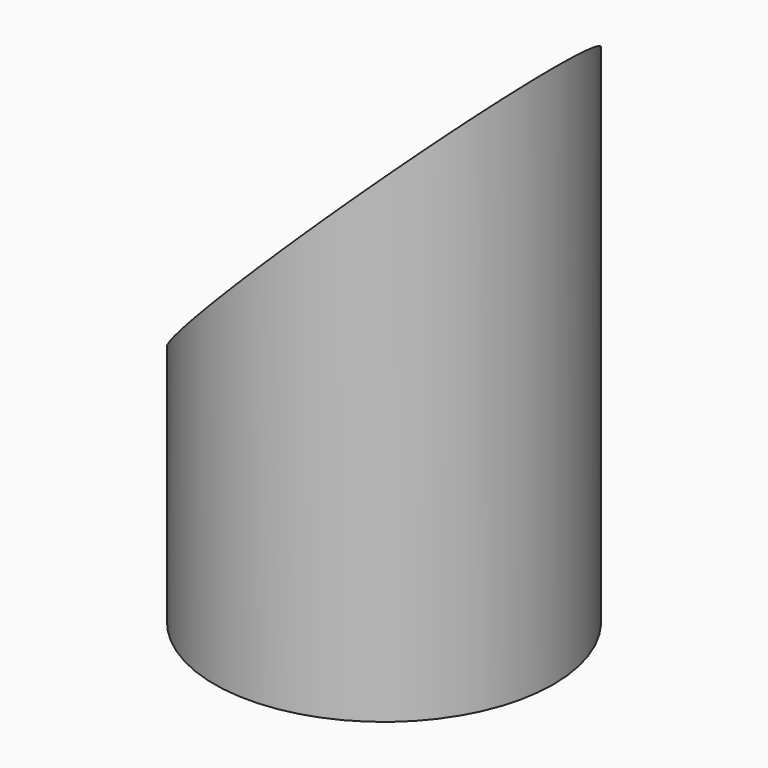
from build123d import *

# Parameters (mm, degrees)
F0_R     = 15.875
F1_DEPTH = 50.8
F3_DEPTH = 25.4


with BuildPart() as f1:
    # F0 (on Top) → F1 (new body)
    with BuildSketch(Plane.XY):
        Circle(F0_R)
    extrude(amount=F1_DEPTH)

    # F2 (on Front) → F3 (cut, symmetric)
    with BuildSketch(Plane.XZ):
        Polygon((15.875, 50.8), (-15.875, 50.8), (-16.056381, 19.050518), align=None)
    extrude(amount=F3_DEPTH, both=True, mode=Mode.SUBTRACT)


solid = f1.part
